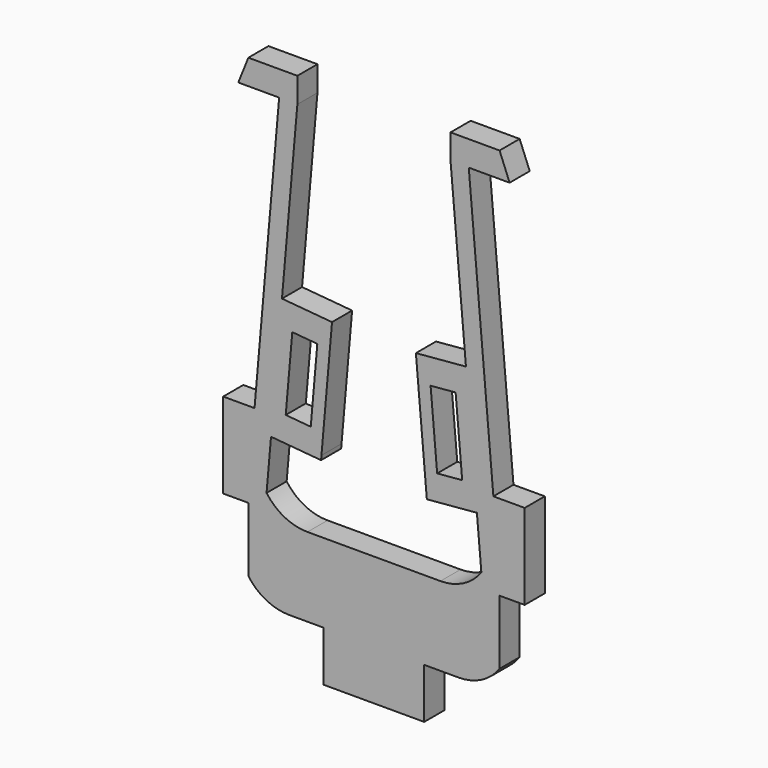
from build123d import *

# Parameters (mm, degrees)
F1_DEPTH = 5


with BuildPart() as f1:
    # F0 (on Front) → F1 (new body)
    with BuildSketch(Plane.XZ):
        with BuildLine():
            ThreePointArc((-25, -25.864711), (-21.438301, -28.944777), (-16.861899, -30.053402))
            Line((-16.861899, -30.053402), (-10, -30.053402))
            Line((-10, -30.053402), (-10, -40.053402))
            Line((-10, -40.053402), (10, -40.053402))
            Line((10, -40.053402), (10, -30.053402))
            Line((10, -30.053402), (16.861899, -30.053402))
            ThreePointArc((16.861899, -30.053402), (21.438301, -28.944777), (25, -25.864711))
            Line((25, -25.864711), (25, -13.053402))
            Line((25, -13.053402), (30, -13.053402))
            Line((30, -13.053402), (30, 3.946598))
            Line((30, 3.946598), (23.767857, 3.946598))
            Line((23.767857, 3.946598), (18.868492, 59.946598))
            Line((18.868492, 59.946598), (25, 59.946598))
            Line((25, 59.946598), (27, 59.946598))
            Line((27, 59.946598), (25, 64.946598))
            Line((25, 64.946598), (21, 64.946598))
            Line((21, 64.946598), (15.242257, 64.946598))
            Line((15.242257, 64.946598), (15.242257, 59.946598))
            Line((15.242257, 59.946598), (18.308011, 24.904867))
            Line((18.308011, 24.904867), (8.346064, 24.03331))
            Line((8.346064, 24.03331), (10.448706, 0))
            Line((10.448706, 0), (10.524957, -0.871557))
            Line((10.524957, -0.871557), (20.486904, 0))
            Line((20.486904, 0), (21.373765, -10.136863))
            ThreePointArc((21.373765, -10.136863), (17.812066, -13.216929), (13.235664, -14.325554))
            Line((13.235664, -14.325554), (-13.235664, -14.325554))
            ThreePointArc((-13.235664, -14.325554), (-17.812066, -13.216929), (-21.373765, -10.136863))
            Line((-21.373765, -10.136863), (-20.486904, 0))
            Line((-20.486904, 0), (-10.524957, -0.871557))
            Line((-10.524957, -0.871557), (-10.448706, 0))
            Line((-10.448706, 0), (-8.346064, 24.03331))
            Line((-8.346064, 24.03331), (-18.308011, 24.904867))
            Line((-18.308011, 24.904867), (-15.242257, 59.946598))
            Line((-15.242257, 59.946598), (-15.242257, 64.946598))
            Line((-15.242257, 64.946598), (-21, 64.946598))
            Line((-21, 64.946598), (-25, 64.946598))
            Line((-25, 64.946598), (-27, 59.946598))
            Line((-27, 59.946598), (-25, 59.946598))
            Line((-25, 59.946598), (-18.868492, 59.946598))
            Line((-18.868492, 59.946598), (-23.767857, 3.946598))
            Line((-23.767857, 3.946598), (-30, 3.946598))
            Line((-30, 3.946598), (-30, -13.053402))
            Line((-30, -13.053402), (-25, -13.053402))
            Line((-25, -13.053402), (-25, -25.864711))
        make_face()
        Polygon((-17.560639, 4.763084), (-16.253303, 19.706005), (-11.272329, 19.270226), (-12.579665, 4.327305), align=None, mode=Mode.SUBTRACT)
        Polygon((16.253303, 19.706005), (17.560639, 4.763084), (12.579665, 4.327305), (11.272329, 19.270226), align=None, mode=Mode.SUBTRACT)
    extrude(amount=F1_DEPTH)


solid = f1.part
